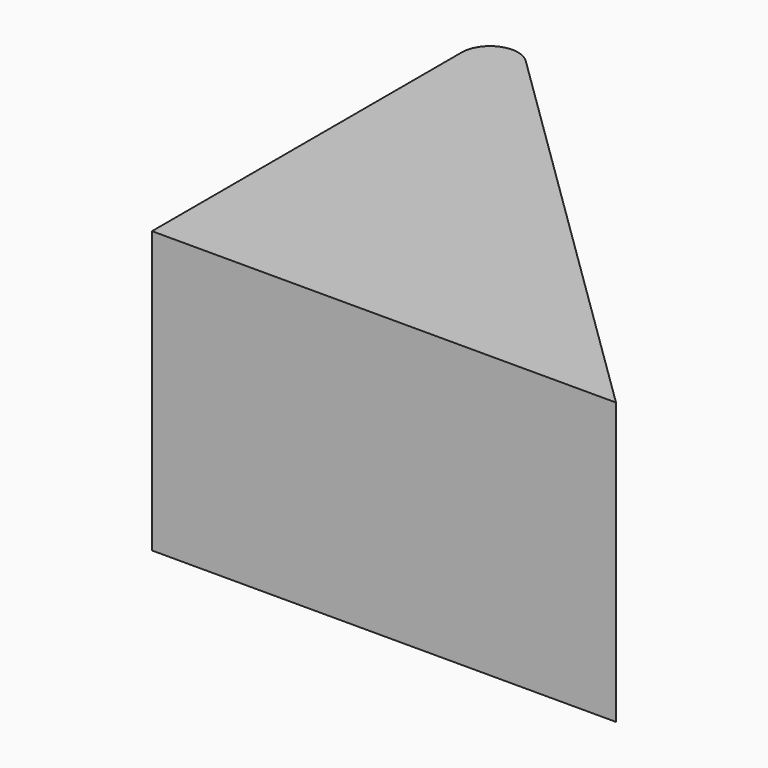
from build123d import *

# Parameters (mm, degrees)
F1_DEPTH = 25
F2_R     = 5


with BuildPart() as f1:
    # F0 (on Top) → F1 (new body, symmetric)
    with BuildSketch(Plane.XY):
        Polygon((42.700708, -30.082166), (-39.817944, 50.683782), (-39.817944, -30.082166), align=None)
    extrude(amount=F1_DEPTH, both=True)

    # F2
    f2_edges = [f1.edges().sort_by_distance(p)[0] for p in [
        (-39.817944, 50.683782, 0),
    ]]
    fillet(f2_edges, radius=F2_R)


solid = f1.part
